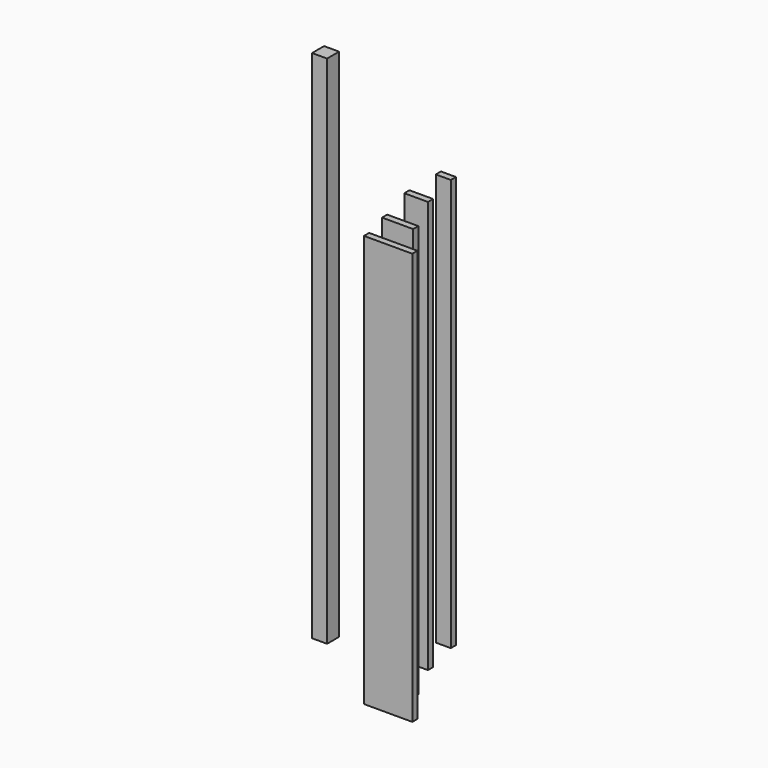
from build123d import *

# Parameters (mm, degrees)
F0_W     = 88.9
F0_H     = 88.9
F1_DEPTH = 3048
F2_W     = 88.9
F2_H     = 38.1
F3_DEPTH = 2438.4
F4_W     = 139.7
F4_H     = 38.1
F5_DEPTH = 2438.4
F6_W     = 184.15
F6_H     = 38.1
F7_DEPTH = 2438.4
F8_W     = 285.75
F8_H     = 38.1
F9_DEPTH = 2438.4


with BuildPart() as f1:
    # F0 (on Top) → F1 (new body)
    with BuildSketch(Plane.XY):
        with Locations((-132.935271, 68.920017)):
            Rectangle(F0_W, F0_H)
    extrude(amount=F1_DEPTH)


with BuildPart() as f3:
    # F2 (on Top) → F3 (new body)
    with BuildSketch(Plane.XY):
        with Locations((340.474084, 366.623222)):
            Rectangle(F2_W, F2_H)
    extrude(amount=F3_DEPTH)


with BuildPart() as f5:
    # F4 (on Top) → F5 (new body)
    with BuildSketch(Plane.XY):
        with Locations((369.976213, 128.842231)):
            Rectangle(F4_W, F4_H)
    extrude(amount=F5_DEPTH)


with BuildPart() as f7:
    # F6 (on Top) → F7 (new body)
    with BuildSketch(Plane.XY):
        with Locations((464.049177, -125.622984)):
            Rectangle(F6_W, F6_H)
    extrude(amount=F7_DEPTH)


with BuildPart() as f9:
    # F8 (on Top) → F9 (new body)
    with BuildSketch(Plane.XY):
        with Locations((564.105356, -320.752116)):
            Rectangle(F8_W, F8_H)
    extrude(amount=F9_DEPTH)


solid = Compound([f1.part, f3.part, f5.part, f7.part, f9.part])
